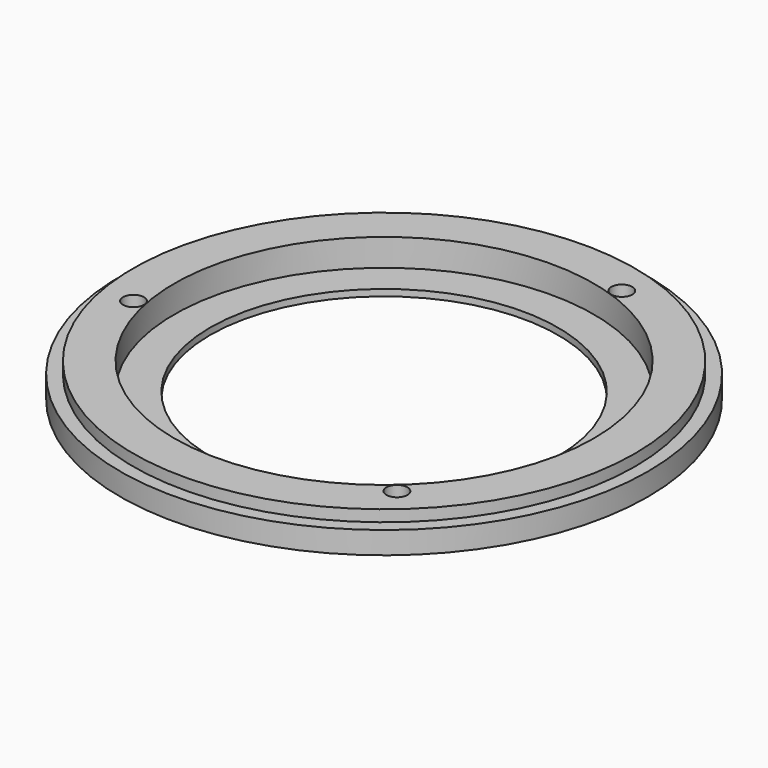
from build123d import *

# Parameters (mm, degrees)
F0_R     = 38.9128
F0_R_2   = 1.6256
F0_R_3   = 32.5374
F1_DEPTH = 5.2324
F2_R     = 32.5374
F2_R_2   = 26.9875
F3_DEPTH = 1.016
F4_R     = 40.9448
F4_R_2   = 38.9128
F5_DEPTH = 3.4544


with BuildPart() as f1:
    # F0 (on Top) → F1 (new body)
    with BuildSketch(Plane.XY):
        Circle(F0_R)
        with Locations((-33.529478, -6.679878)):
            Circle(F0_R_2, mode=Mode.SUBTRACT)
        with Locations((22.549683, -25.697441)):
            Circle(F0_R_2, mode=Mode.SUBTRACT)
        Circle(F0_R_3, mode=Mode.SUBTRACT)
        with Locations((10.979795, 32.377319)):
            Circle(F0_R_2, mode=Mode.SUBTRACT)
    extrude(amount=F1_DEPTH)

    # F2 (on Top) → F3 (join)
    with BuildSketch(Plane.XY):
        Circle(F2_R)
        Circle(F2_R_2, mode=Mode.SUBTRACT)
    extrude(amount=F3_DEPTH)

    # F4 (on Top) → F5 (join)
    with BuildSketch(Plane.XY):
        Circle(F4_R)
        Circle(F4_R_2, mode=Mode.SUBTRACT)
    extrude(amount=F5_DEPTH)


solid = f1.part
